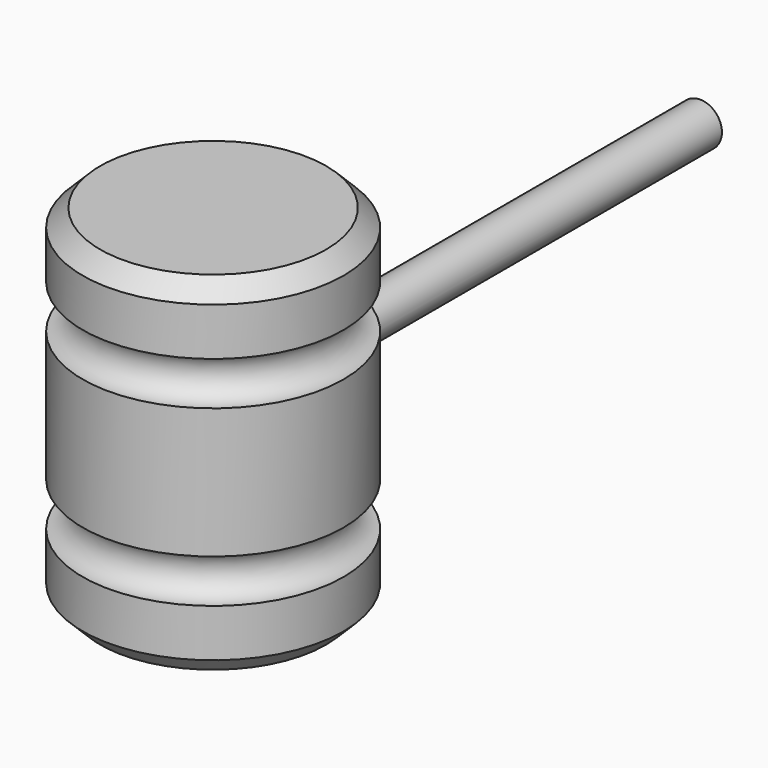
from build123d import *

# Parameters (mm, degrees)
F2_SIZE  = 5.08
F3_R     = 6.35
F4_DEPTH = 127
F5_DEPTH = 177.8


with BuildPart() as f1:
    # F0 (on Front) → F1 (revolve)
    with BuildSketch(Plane.XZ):
        with BuildLine():
            Line((-38.1, 0), (0, 0))
            Line((0, 0), (0, 19.05))
            ThreePointArc((0, 19.05), (-6.35, 25.4), (0, 31.75))
            Line((0, 31.75), (0, 69.85))
            ThreePointArc((0, 69.85), (-6.35, 76.2), (0, 82.55))
            Line((0, 82.55), (0, 101.6))
            Line((0, 101.6), (-38.1, 101.6))
            Line((-38.1, 101.6), (-38.1, 0))
        make_face()
    revolve(axis=Axis((-38.1, 0, 50.8), (0, 0, 1)))

    # F2
    f2_edges = [f1.edges().sort_by_distance(p)[0] for p in [
        (-76.2, 0, 101.6),
        (-76.2, 0, 0),
    ]]
    chamfer(f2_edges, length=F2_SIZE)

    # F3 (on Front) → F4 (cut)
    with BuildSketch(Plane.XZ):
        with Locations((-38.1, 50.8)):
            Circle(F3_R)
    extrude(amount=-F4_DEPTH, mode=Mode.SUBTRACT)

    # F5 (add): a face of the model
    f5_faces = [f1.faces().sort_by_distance(p)[0] for p in [
        (-38.1, 0, 50.8),
    ]]
    extrude(f5_faces, amount=F5_DEPTH)


solid = f1.part
